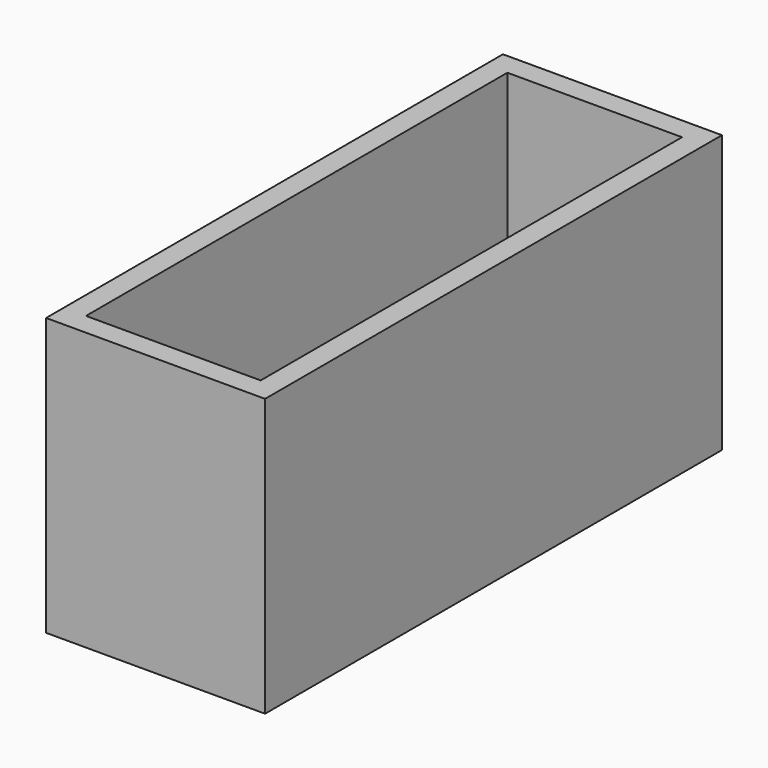
from build123d import *

# Parameters (mm, degrees)
SKETCH_W        = 7.9
SKETCH_H        = 20.6
PAD_DEPTH       = 10
SKETCH001_W     = 6.3
SKETCH001_H     = 19
POCKET_DEPTH    = 6.3
SKETCH003_R     = 1.25
POCKET001_DEPTH = 10


with BuildPart() as part:
    # Sketch → Pad (new body)
    with BuildSketch(Plane.XY):
        Rectangle(SKETCH_W, SKETCH_H)
    extrude(amount=PAD_DEPTH)

    # Sketch001 (on Face6 of Pad) → Pocket (cut)
    with BuildSketch(Plane.XY.offset(10)):
        Rectangle(SKETCH001_W, SKETCH001_H)
    extrude(amount=-POCKET_DEPTH, mode=Mode.SUBTRACT)

    # Sketch003 (on Face5 of Pocket) → Pocket001 (cut)
    with BuildSketch(Plane.XY.offset(10)):
        Circle(SKETCH003_R)
    extrude(amount=-POCKET001_DEPTH, mode=Mode.SUBTRACT)


solid = part.part
